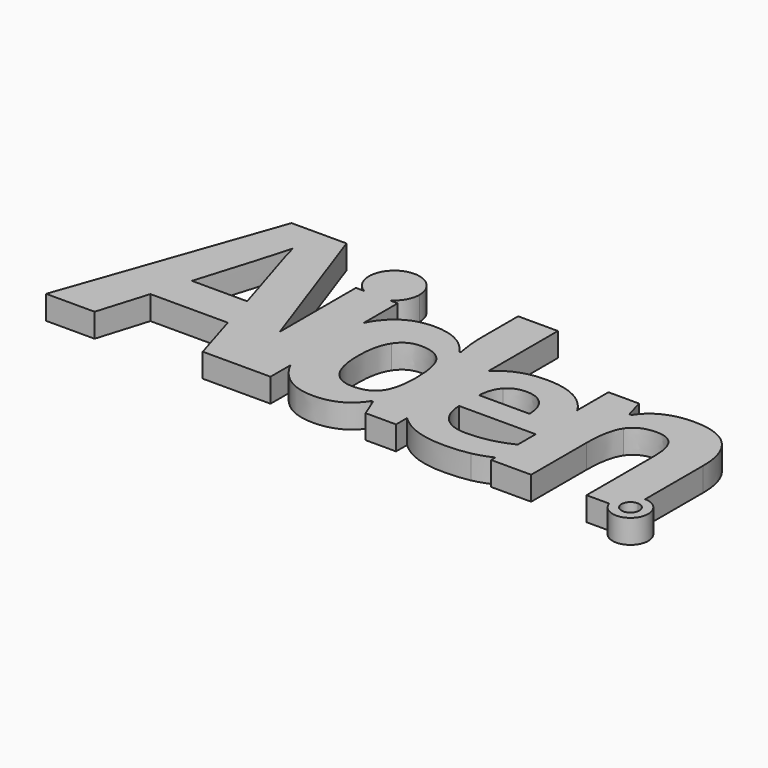
from build123d import *

# Parameters (mm, degrees)
F1_DEPTH = 4
F2_SCALE = 0.8


with BuildPart() as f1:
    # F0 (on Top) → F1 (new body)
    with BuildSketch(Plane.XY):
        with BuildLine():
            ThreePointArc((2.1488346381, 27.8940834105), (3.6881804127, 29.448172395), (4.2509673702, 31.561948359))
            ThreePointArc((4.2509673702, 31.561948359), (-2.113775964, 35.2501287717), (-2.1488346381, 27.8940834105))
            Line((-2.1488346381, 27.8940834105), (2.1488346381, 27.8940834105))
        make_face()
        with BuildLine():
            Line((2.1488346381, 27.8940834105), (-2.1488346381, 27.8940834105))
            ThreePointArc((-2.1488346381, 27.8940834105), (0, 27.3109809888), (2.1488346381, 27.8940834105))
        make_face()
        with BuildLine():
            ThreePointArc((2.1488346381, 27.8940834105), (0, 27.3109809888), (-2.1488346381, 27.8940834105))
            Line((-2.1488346381, 27.8940834105), (-3.5128553864, 27.8940834105))
            Line((-3.5128553864, 27.8940834105), (-3.5128553864, 11.8866187867))
            Line((-3.5128553864, 11.8866187867), (0.2716600963, 1.1618769495))
            Line((0.2716600963, 1.1618769495), (3.5128553864, 1.1618769495))
            Line((3.5128553864, 1.1618769495), (3.5128553864, 5.3711547468))
            add(Edge.make_bspline(
                [(3.5128553864, 5.3711547468), (2.0144434893, 8.4253364224), (2.0144434893, 13.0503994181)],
                knots=[0.2193225388, 0.2193225388, 0.2193225388, 1, 1, 1], degree=2))
            add(Edge.make_bspline(
                [(2.0144434893, 13.0503994181), (2.0144434893, 17.7014605477), (3.5128553864, 20.7618998173)],
                knots=[0, 0, 0, 0.7740986013, 0.7740986013, 0.7740986013], degree=2))
            Line((3.5128553864, 20.7618998173), (3.5128553864, 27.8940834105))
            Line((3.5128553864, 27.8940834105), (2.1488346381, 27.8940834105))
        make_face()
        Polygon((0.2716600963, 1.1618769495), (-3.5128553864, 11.8866187867), (-3.5128553864, 1.1618769495), align=None)
        Polygon((-3.5128553864, 1.1618769495), (-3.5128553864, 11.8866187867), (-12.3729065895, 36.9946576501), (-21.6200758025, 36.9946576501), (-34.2177818335, 1.1618769495), (-26.064027899, 1.1618769495), (-23.4788817761, 9.6592756858), (-10.4672399611, 9.6592756858), (-7.8820938382, 1.1618769495), align=None)
        with BuildLine():
            add(Edge.make_bspline(
                [(-12.2791852799, 16.0010843015), (-15.8640253718, 27.5444255996), (-16.3170117015, 29.0595867713)],
                knots=[0, 0, 0, 1, 1, 1], degree=2))
            Line((-12.2791852799, 16.0010843015), (-21.5732151477, 16.0010843015))
            add(Edge.make_bspline(
                [(-16.9652507595, 31.4494801659), (-17.7696920001, 28.3254365129), (-21.5732151477, 16.0010843015)],
                knots=[0, 0, 0, 1, 1, 1], degree=2))
            add(Edge.make_bspline(
                [(-16.3170117015, 29.0595867713), (-16.7699980311, 30.5747479431), (-16.9652507595, 31.4494801659)],
                knots=[0, 0, 0, 1, 1, 1], degree=2))
        make_face(mode=Mode.SUBTRACT)
        with BuildLine():
            add(Edge.make_bspline(
                [(3.5128553864, 20.7618998173), (3.9501295822, 21.6550128013), (4.5150113623, 22.4126654266)],
                knots=[0.7740986013, 0.7740986013, 0.7740986013, 1, 1, 1], degree=2))
            Line((3.5128553864, 20.7618998173), (3.5128553864, 5.3711547468))
            add(Edge.make_bspline(
                [(4.4730437896, 3.7790631505), (3.9338173299, 4.513116809), (3.5128553864, 5.3711547468)],
                knots=[0, 0, 0, 0.2193225388, 0.2193225388, 0.2193225388], degree=2))
            add(Edge.make_bspline(
                [(11.2333202911, 0.4321492281), (6.93164409, 0.4321492281), (4.4730437896, 3.7790631505)],
                knots=[0, 0, 0, 1, 1, 1], degree=2))
            add(Edge.make_bspline(
                [(18.1649643811, 4.0413604798), (15.8917208602, 0.4321492281), (11.2333202911, 0.4321492281)],
                knots=[0, 0, 0, 1, 1, 1], degree=2))
            Line((18.1649643811, 4.0413604798), (18.4517427945, 4.0413604798))
            Line((18.4517427945, 4.0413604798), (19.7387483571, 0.8728087414))
            Line((19.7387483571, 0.8728087414), (24.8517976303, 0.8728087414))
            Line((24.8517976303, 0.8728087414), (24.8517976303, 3.2092719333))
            add(Edge.make_bspline(
                [(24.8517976303, 3.2092719333), (21.9149770273, 6.1553586181), (21.9149770273, 11.4941812468)],
                knots=[0.0121583181, 0.0121583181, 0.0121583181, 1, 1, 1], degree=2))
            add(Edge.make_bspline(
                [(21.9149770273, 11.4941812468), (21.9149770273, 17.0571116946), (24.6964422512, 20.0951813411)],
                knots=[0, 0, 0, 1, 1, 1], degree=2))
            add(Edge.make_bspline(
                [(24.6964422512, 20.0951813411), (24.7733070611, 20.1791373237), (24.8517976303, 20.2607732124)],
                knots=[0, 0, 0, 0.0276346471, 0.0276346471, 0.0276346471], degree=2))
            Line((24.8517976303, 20.2607732124), (24.8517976303, 34.88752641))
            Line((24.8517976303, 34.88752641), (18.1649643811, 34.88752641))
            Line((18.1649643811, 34.88752641), (18.1649643811, 27.0605741025))
            add(Edge.make_bspline(
                [(18.6685752534, 22.1853410745), (18.1649643811, 24.9202278951), (18.1649643811, 27.0605741025)],
                knots=[0, 0, 0, 1, 1, 1], degree=2))
            Line((18.6685752534, 22.1853410745), (18.4517427945, 22.1853410745))
            add(Edge.make_bspline(
                [(11.4081851773, 25.7665739444), (16.0246181737, 25.7665739444), (18.4517427945, 22.1853410745)],
                knots=[0, 0, 0, 1, 1, 1], degree=2))
            add(Edge.make_bspline(
                [(4.5150113623, 22.4126654266), (7.0155792354, 25.7665739444), (11.4081851773, 25.7665739444)],
                knots=[0, 0, 0, 1, 1, 1], degree=2))
        make_face()
        with BuildLine():
            add(Edge.make_bspline(
                [(13.5765097665, 5.7480417694), (16.1295371054, 5.7480417694), (17.3221156295, 7.2343933023)],
                knots=[0, 0, 0, 1, 1, 1], degree=2))
            add(Edge.make_bspline(
                [(10.0092660875, 7.5526473952), (11.2543040775, 5.7480417694), (13.5765097665, 5.7480417694)],
                knots=[0, 0, 0, 1, 1, 1], degree=2))
            add(Edge.make_bspline(
                [(8.7642280976, 12.9594696773), (8.7642280976, 9.3572530211), (10.0092660875, 7.5526473952)],
                knots=[0, 0, 0, 1, 1, 1], degree=2))
            add(Edge.make_bspline(
                [(9.9987741944, 18.4572217002), (8.7642280976, 16.568680929), (8.7642280976, 12.9594696773)],
                knots=[0, 0, 0, 1, 1, 1], degree=2))
            add(Edge.make_bspline(
                [(13.4645962393, 20.3457624715), (11.2333202911, 20.3457624715), (9.9987741944, 18.4572217002)],
                knots=[0, 0, 0, 1, 1, 1], degree=2))
            add(Edge.make_bspline(
                [(17.4130453703, 18.6425784796), (16.1994830599, 20.3457624715), (13.4645962393, 20.3457624715)],
                knots=[0, 0, 0, 1, 1, 1], degree=2))
            add(Edge.make_bspline(
                [(18.6266076807, 13.00143725), (18.6266076807, 16.9393944878), (17.4130453703, 18.6425784796)],
                knots=[0, 0, 0, 1, 1, 1], degree=2))
            Line((18.6266076807, 13.00143725), (18.6266076807, 12.2809939187))
            add(Edge.make_bspline(
                [(17.3221156295, 7.2343933023), (18.5146941535, 8.7207448352), (18.6266076807, 12.2809939187)],
                knots=[0, 0, 0, 1, 1, 1], degree=2))
        make_face(mode=Mode.SUBTRACT)
        with BuildLine():
            Line((3.5128553864, 5.3711547468), (3.5128553864, 20.7618998173))
            add(Edge.make_bspline(
                [(2.0144434893, 13.0503994181), (2.0144434893, 17.7014605477), (3.5128553864, 20.7618998173)],
                knots=[0, 0, 0, 0.7740986013, 0.7740986013, 0.7740986013], degree=2))
            add(Edge.make_bspline(
                [(3.5128553864, 5.3711547468), (2.0144434893, 8.4253364224), (2.0144434893, 13.0503994181)],
                knots=[0.2193225388, 0.2193225388, 0.2193225388, 1, 1, 1], degree=2))
        make_face()
        with BuildLine():
            add(Edge.make_bspline(
                [(24.8517976303, 3.2092719333), (21.9149770273, 6.1553586181), (21.9149770273, 11.4941812468)],
                knots=[0.0121583181, 0.0121583181, 0.0121583181, 1, 1, 1], degree=2))
            Line((24.8517976303, 3.2092719333), (24.8517976303, 20.2607732124))
            add(Edge.make_bspline(
                [(24.6964422512, 20.0951813411), (24.7733070611, 20.1791373237), (24.8517976303, 20.2607732124)],
                knots=[0, 0, 0, 0.0276346471, 0.0276346471, 0.0276346471], degree=2))
            add(Edge.make_bspline(
                [(21.9149770273, 11.4941812468), (21.9149770273, 17.0571116946), (24.6964422512, 20.0951813411)],
                knots=[0, 0, 0, 1, 1, 1], degree=2))
        make_face()
        with BuildLine():
            Line((24.8517976303, 20.2607732124), (24.8517976303, 3.2092719333))
            add(Edge.make_bspline(
                [(24.9245350714, 3.1371137519), (24.8879439074, 3.1730116097), (24.8517976303, 3.2092719333)],
                knots=[0, 0, 0, 0.0121583181, 0.0121583181, 0.0121583181], degree=2))
            add(Edge.make_bspline(
                [(33.2752666546, 0.1845789129), (27.9340931154, 0.1845789129), (24.9245350714, 3.1371137519)],
                knots=[0, 0, 0, 1, 1, 1], degree=2))
            add(Edge.make_bspline(
                [(37.6723893548, 0.5710695249), (35.87299044, 0.1845789129), (33.2752666546, 0.1845789129)],
                knots=[0, 0, 0, 1, 1, 1], degree=2))
            add(Edge.make_bspline(
                [(40.9146455919, 1.6800010707), (39.3918731171, 0.9403952626), (37.6723893548, 0.5710695249)],
                knots=[0.0444121377, 0.0444121377, 0.0444121377, 1, 1, 1], degree=2))
            Line((40.9146455919, 1.6800010707), (40.9146455919, 6.3596039359))
            add(Edge.make_bspline(
                [(37.3365860362, 5.0980784143), (39.0520850304, 5.4979545144), (40.9146455919, 6.3596039359)],
                knots=[0, 0, 0, 0.963551726, 0.963551726, 0.963551726], degree=2))
            add(Edge.make_bspline(
                [(33.5540467682, 4.6830761998), (35.5561948564, 4.6830761998), (37.3365860362, 5.0980784143)],
                knots=[0, 0, 0, 1, 1, 1], degree=2))
            add(Edge.make_bspline(
                [(29.5560865034, 6.1276640609), (30.9816666295, 4.6830761998), (33.5540467682, 4.6830761998)],
                knots=[0, 0, 0, 1, 1, 1], degree=2))
            add(Edge.make_bspline(
                [(28.0291317905, 10.1446320608), (28.1305063772, 7.5722519221), (29.5560865034, 6.1276640609)],
                knots=[0, 0, 0, 1, 1, 1], degree=2))
            Line((28.0291317905, 10.1446320608), (40.9146455919, 10.1446320608))
            Line((40.9146455919, 10.1446320608), (40.9146455919, 18.8657178217))
            add(Edge.make_bspline(
                [(39.6903772222, 20.4626642181), (40.3984195191, 19.7391737256), (40.9146455919, 18.8657178217)],
                knots=[0, 0, 0, 0.2709106855, 0.2709106855, 0.2709106855], degree=2))
            add(Edge.make_bspline(
                [(32.3882390206, 23.1332509877), (37.0768136576, 23.1332509877), (39.6903772222, 20.4626642181)],
                knots=[0, 0, 0, 1, 1, 1], degree=2))
            add(Edge.make_bspline(
                [(24.8517976303, 20.2607732124), (27.6136027546, 23.1332509877), (32.3882390206, 23.1332509877)],
                knots=[0.0276346471, 0.0276346471, 0.0276346471, 1, 1, 1], degree=2))
        make_face()
        with BuildLine():
            add(Edge.make_bspline(
                [(32.4262544906, 18.8375028743), (30.5064732541, 18.8375028743), (29.4166964466, 17.6210078333)],
                knots=[0, 0, 0, 1, 1, 1], degree=2))
            add(Edge.make_bspline(
                [(35.4738280047, 17.6210078333), (34.3460357271, 18.8375028743), (32.4262544906, 18.8375028743)],
                knots=[0, 0, 0, 1, 1, 1], degree=2))
            add(Edge.make_bspline(
                [(36.645971664, 14.1679359723), (36.6016202823, 16.4045127924), (35.4738280047, 17.6210078333)],
                knots=[0, 0, 0, 1, 1, 1], degree=2))
            Line((36.645971664, 14.1679359723), (28.1685218473, 14.1679359723))
            add(Edge.make_bspline(
                [(29.4166964466, 17.6210078333), (28.3269196391, 16.4045127924), (28.1685218473, 14.1679359723)],
                knots=[0, 0, 0, 1, 1, 1], degree=2))
        make_face(mode=Mode.SUBTRACT)
        with BuildLine():
            Line((40.9146455919, 25.4354721989), (40.9146455919, 18.8657178217))
            add(Edge.make_bspline(
                [(40.9146455919, 18.8657178217), (42.3039407867, 16.5150266148), (42.3039407867, 13.0781591648)],
                knots=[0.2709106855, 0.2709106855, 0.2709106855, 1, 1, 1], degree=2))
            Line((42.3039407867, 13.0781591648), (42.3039407867, 10.1446320608))
            Line((42.3039407867, 10.1446320608), (40.9146455919, 10.1446320608))
            Line((40.9146455919, 10.1446320608), (40.9146455919, 6.3596039359))
            add(Edge.make_bspline(
                [(40.9146455919, 6.3596039359), (40.9851006758, 6.3921975511), (41.0557661874, 6.4254519095)],
                knots=[0.963551726, 0.963551726, 0.963551726, 1, 1, 1], degree=2))
            Line((41.0557661874, 6.4254519095), (41.0557661874, 1.7495490958))
            add(Edge.make_bspline(
                [(41.0557661874, 1.7495490958), (40.985418342, 1.7143751731), (40.9146455919, 1.6800010707)],
                knots=[0, 0, 0, 0.0444121377, 0.0444121377, 0.0444121377], degree=2))
            Line((40.9146455919, 1.6800010707), (40.9146455919, 0.7771677338))
            Line((40.9146455919, 0.7771677338), (47.6402792941, 0.7771677338))
            Line((47.6402792941, 0.7771677338), (47.6402792941, 12.3794151696))
            add(Edge.make_bspline(
                [(48.8964837001, 18.6322078874), (47.6402792941, 16.7479012783), (47.6402792941, 12.3794151696)],
                knots=[0, 0, 0, 1, 1, 1], degree=2))
            add(Edge.make_bspline(
                [(52.9756193558, 20.5165144965), (50.1526881062, 20.5165144965), (48.8964837001, 18.6322078874)],
                knots=[0, 0, 0, 1, 1, 1], degree=2))
            add(Edge.make_bspline(
                [(55.9996844569, 19.1826794811), (55.0504738242, 20.5165144965), (52.9756193558, 20.5165144965)],
                knots=[0, 0, 0, 1, 1, 1], degree=2))
            add(Edge.make_bspline(
                [(56.9488950896, 15.1811744348), (56.9488950896, 17.8488444656), (55.9996844569, 19.1826794811)],
                knots=[0, 0, 0, 1, 1, 1], degree=2))
            Line((56.9488950896, 15.1811744348), (56.9488950896, 0.7771677338))
            Line((56.9488950896, 0.7771677338), (60.7564002275, 0.7771677338))
            Line((60.7564002275, 0.7771677338), (62.4211823132, 0.7771677338))
            ThreePointArc((62.4211823132, 0.7771677338), (62.2858076042, 2.3770103555), (63.6745287917, 3.182787117))
            Line((63.6745287917, 3.182787117), (63.6745287917, 4.6833568017))
            Line((63.6745287917, 4.6833568017), (63.6745287917, 16.8537612002))
            add(Edge.make_bspline(
                [(61.4479417686, 23.5688089101), (63.6745287917, 21.2434192933), (63.6745287917, 16.8537612002)],
                knots=[0, 0, 0, 1, 1, 1], degree=2))
            add(Edge.make_bspline(
                [(54.9163845899, 25.894198527), (59.2213547455, 25.894198527), (61.4479417686, 23.5688089101)],
                knots=[0, 0, 0, 1, 1, 1], degree=2))
            add(Edge.make_bspline(
                [(50.4314525671, 24.9802745349), (52.4039757778, 25.894198527), (54.9163845899, 25.894198527)],
                knots=[0, 0, 0, 1, 1, 1], degree=2))
            add(Edge.make_bspline(
                [(47.3297568566, 22.2808465275), (48.4589293565, 24.0663505429), (50.4314525671, 24.9802745349)],
                knots=[0, 0, 0, 1, 1, 1], degree=2))
            Line((47.3297568566, 22.2808465275), (46.9557184661, 22.2808465275))
            Line((46.9557184661, 22.2808465275), (46.0523804662, 25.4354721989))
            Line((46.0523804662, 25.4354721989), (40.9146455919, 25.4354721989))
        make_face()
        with BuildLine():
            add(Edge.make_bspline(
                [(40.9146455919, 18.8657178217), (42.3039407867, 16.5150266148), (42.3039407867, 13.0781591648)],
                knots=[0.2709106855, 0.2709106855, 0.2709106855, 1, 1, 1], degree=2))
            Line((40.9146455919, 18.8657178217), (40.9146455919, 10.1446320608))
            Line((40.9146455919, 10.1446320608), (42.3039407867, 10.1446320608))
            Line((42.3039407867, 10.1446320608), (42.3039407867, 13.0781591648))
        make_face()
        with BuildLine():
            Line((40.9146455919, 6.3596039359), (40.9146455919, 1.6800010707))
            add(Edge.make_bspline(
                [(41.0557661874, 1.7495490958), (40.985418342, 1.7143751731), (40.9146455919, 1.6800010707)],
                knots=[0, 0, 0, 0.0444121377, 0.0444121377, 0.0444121377], degree=2))
            Line((41.0557661874, 1.7495490958), (41.0557661874, 6.4254519095))
            add(Edge.make_bspline(
                [(40.9146455919, 6.3596039359), (40.9851006758, 6.3921975511), (41.0557661874, 6.4254519095)],
                knots=[0.963551726, 0.963551726, 0.963551726, 1, 1, 1], degree=2))
        make_face()
        with BuildLine():
            ThreePointArc((60.7564002275, 0.7771677338), (66.0194795954, -0.111536961), (63.6745287917, 4.6833568017))
            Line((63.6745287917, 4.6833568017), (63.6745287917, 3.182787117))
            ThreePointArc((63.6745287917, 3.182787117), (64.697209834, 2.7237175484), (65.1160836284, 1.6839261619))
            ThreePointArc((65.1160836284, 1.6839261619), (64.0944391589, 0.2622454711), (62.4211823132, 0.7771677338))
            Line((62.4211823132, 0.7771677338), (60.7564002275, 0.7771677338))
        make_face()
    extrude(amount=F1_DEPTH)


with BuildPart() as f1_1:
    # F2: moved
    add(f1.part.scale(F2_SCALE).moved(Location((-6.8435563667, 0.2323753899, 0))))


solid = f1_1.part
